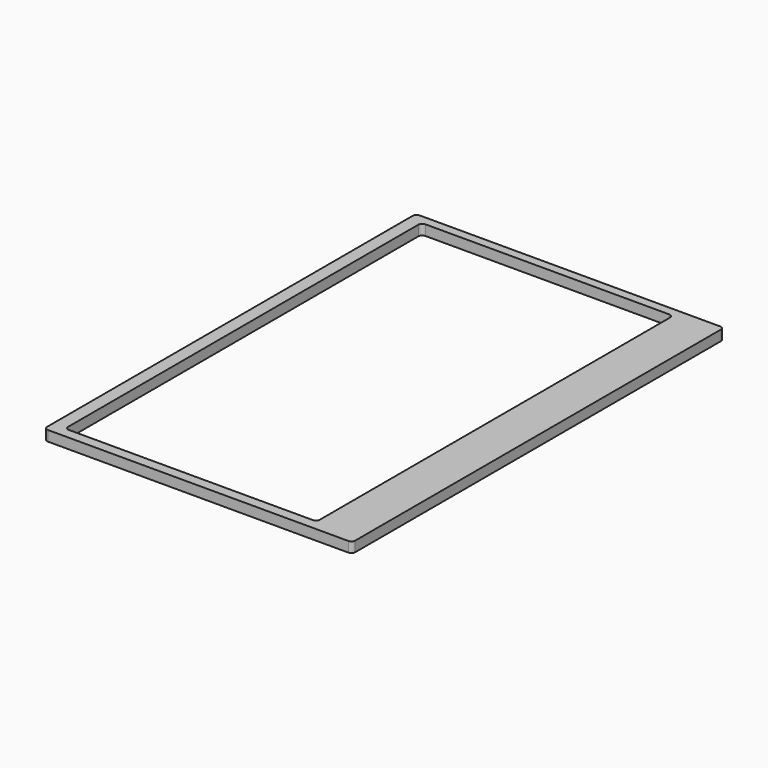
from build123d import *

# Parameters (mm, degrees)
BOX001_W     = 98
BOX001_H     = 173.5
BOX001_DEPTH = 10
FILLET_R     = 1.5
BOX_W        = 120
BOX_H        = 181
BOX_DEPTH    = 4
FILLET001_R  = 1.5


with BuildPart() as fillet_body:
    # Box001 → Box001 (new body)
    with BuildSketch(Plane(origin=(7, 4, 0), x_dir=(1, 0, 0), z_dir=(0, 0, 1))):
        with Locations((49, 86.75)):
            Rectangle(BOX001_W, BOX001_H)
    extrude(amount=BOX001_DEPTH)

    # Fillet
    fillet_edges = [fillet_body.edges().sort_by_distance(p)[0] for p in [
        (7, 4, 5),
        (7, 177.5, 5),
        (105, 4, 5),
        (105, 177.5, 5),
    ]]
    fillet(fillet_edges, radius=FILLET_R)


with BuildPart() as cut:
    # Box → Box (new body)
    with BuildSketch(Plane(origin=(2, 0, 0), x_dir=(1, 0, 0), z_dir=(0, 0, 1))):
        with Locations((60, 90.5)):
            Rectangle(BOX_W, BOX_H)
    extrude(amount=BOX_DEPTH)

    # Fillet001
    fillet001_edges = [cut.edges().sort_by_distance(p)[0] for p in [
        (2, 0, 2),
        (2, 181, 2),
        (122, 0, 2),
        (122, 181, 2),
    ]]
    fillet(fillet001_edges, radius=FILLET001_R)

    # Cut: cut Fillet body
    add(fillet_body.part, mode=Mode.SUBTRACT)


solid = cut.part
